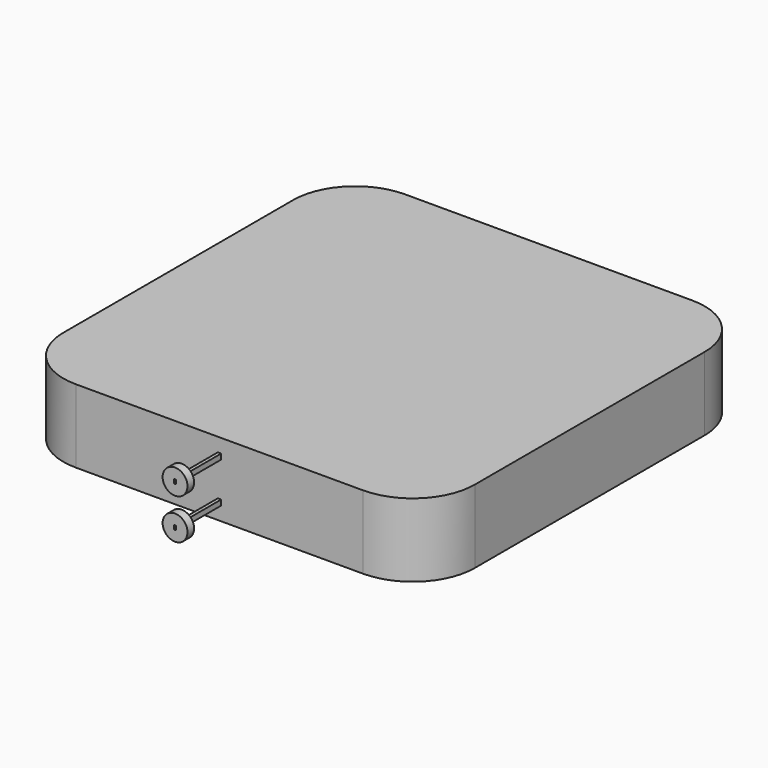
from build123d import *

# Parameters (mm, degrees)
F1_DEPTH = 28.1
F2_DEPTH = 35.5
F4_DEPTH = 42.5
F5_R     = 9.525
F6_DEPTH = 6.35
F7_R     = 9.525
F8_DEPTH = 6.35


with BuildPart() as f1:
    # F0 (on Top) → F1 (new body, symmetric)
    with BuildSketch(Plane.XY):
        with BuildLine():
            Line((107, -115), (0, -115))
            Line((0, -115), (0, -157.5))
            Line((0, -157.5), (110, -157.5))
            ThreePointArc((110, -157.5), (143.5875721064, -143.5875721064), (157.5, -110))
            Line((157.5, -110), (157.5, 0))
            Line((157.5, 0), (115, 0))
            Line((115, 0), (115, -107))
            ThreePointArc((115, -107), (120.6568542495, -109.3431457505), (123, -115))
            ThreePointArc((123, -115), (115, -123), (107, -115))
        make_face()
        with BuildLine():
            Line((115, 0), (0, 0))
            Line((0, 0), (0, -115))
            Line((0, -115), (107, -115))
            ThreePointArc((107, -115), (109.3431457505, -109.3431457505), (115, -107))
            Line((115, -107), (115, 0))
        make_face()
        with BuildLine():
            Line((115, 107), (115, 0))
            Line((115, 0), (157.5, 0))
            Line((157.5, 0), (157.5, 110))
            ThreePointArc((157.5, 110), (143.5875721064, 143.5875721064), (110, 157.5))
            Line((110, 157.5), (0, 157.5))
            Line((0, 157.5), (0, 142.7501142025))
            Line((0, 142.7501142025), (0, 115))
            Line((0, 115), (107, 115))
            ThreePointArc((107, 115), (115, 123), (123, 115))
            ThreePointArc((123, 115), (120.6568542495, 109.3431457505), (115, 107))
        make_face()
        with BuildLine():
            Line((0, 115), (0, 0))
            Line((0, 0), (115, 0))
            Line((115, 0), (115, 107))
            ThreePointArc((115, 107), (109.3431457505, 109.3431457505), (107, 115))
            Line((107, 115), (0, 115))
        make_face()
        with BuildLine():
            Line((-115, 0), (0, 0))
            Line((0, 0), (0, 115))
            Line((0, 115), (-107, 115))
            ThreePointArc((-107, 115), (-109.3431457505, 109.3431457505), (-115, 107))
            Line((-115, 107), (-115, 0))
        make_face()
        with BuildLine():
            Line((-157.5, 0), (-115, 0))
            Line((-115, 0), (-115, 107))
            ThreePointArc((-115, 107), (-120.6568542495, 120.6568542495), (-107, 115))
            Line((-107, 115), (0, 115))
            Line((0, 115), (0, 142.7501142025))
            Line((0, 142.7501142025), (0, 157.5))
            Line((0, 157.5), (-110, 157.5))
            ThreePointArc((-110, 157.5), (-143.5875721064, 143.5875721064), (-157.5, 110))
            Line((-157.5, 110), (-157.5, 0))
        make_face()
        with BuildLine():
            Line((0, -115), (0, 0))
            Line((0, 0), (-115, 0))
            Line((-115, 0), (-115, -107))
            ThreePointArc((-115, -107), (-109.3431457505, -109.3431457505), (-107, -115))
            Line((-107, -115), (0, -115))
        make_face()
        with BuildLine():
            Line((0, -157.5), (0, -115))
            Line((0, -115), (-107, -115))
            ThreePointArc((-107, -115), (-120.6568542495, -120.6568542495), (-115, -107))
            Line((-115, -107), (-115, 0))
            Line((-115, 0), (-157.5, 0))
            Line((-157.5, 0), (-157.5, -110))
            ThreePointArc((-157.5, -110), (-143.5875721064, -143.5875721064), (-110, -157.5))
            Line((-110, -157.5), (0, -157.5))
        make_face()
        with BuildLine():
            Line((115, -115), (107, -115))
            ThreePointArc((107, -115), (115, -123), (123, -115))
            ThreePointArc((123, -115), (120.6568542495, -109.3431457505), (115, -107))
            Line((115, -107), (115, -115))
        make_face()
        with BuildLine():
            ThreePointArc((115, -107), (109.3431457505, -109.3431457505), (107, -115))
            Line((107, -115), (115, -115))
            Line((115, -115), (115, -107))
        make_face()
        with BuildLine():
            ThreePointArc((-115, -107), (-120.6568542495, -120.6568542495), (-107, -115))
            Line((-107, -115), (-115, -115))
            Line((-115, -115), (-115, -107))
        make_face()
        with BuildLine():
            Line((-115, -115), (-107, -115))
            ThreePointArc((-107, -115), (-109.3431457505, -109.3431457505), (-115, -107))
            Line((-115, -107), (-115, -115))
        make_face()
        with BuildLine():
            Line((115, 115), (115, 107))
            ThreePointArc((115, 107), (120.6568542495, 109.3431457505), (123, 115))
            ThreePointArc((123, 115), (115, 123), (107, 115))
            Line((107, 115), (115, 115))
        make_face()
        with BuildLine():
            ThreePointArc((107, 115), (109.3431457505, 109.3431457505), (115, 107))
            Line((115, 107), (115, 115))
            Line((115, 115), (107, 115))
        make_face()
        with BuildLine():
            ThreePointArc((-107, 115), (-120.6568542495, 120.6568542495), (-115, 107))
            Line((-115, 107), (-115, 115))
            Line((-115, 115), (-107, 115))
        make_face()
        with BuildLine():
            Line((-115, 115), (-115, 107))
            ThreePointArc((-115, 107), (-109.3431457505, 109.3431457505), (-107, 115))
            Line((-107, 115), (-115, 115))
        make_face()
    extrude(amount=F1_DEPTH, both=True)

    # F0 (on Top) → F2 (join)
    with BuildSketch(Plane.XY):
        with BuildLine():
            ThreePointArc((-115, -107), (-120.6568542495, -120.6568542495), (-107, -115))
            Line((-107, -115), (-115, -115))
            Line((-115, -115), (-115, -107))
        make_face()
        with BuildLine():
            Line((-115, -115), (-107, -115))
            ThreePointArc((-107, -115), (-109.3431457505, -109.3431457505), (-115, -107))
            Line((-115, -107), (-115, -115))
        make_face()
        with BuildLine():
            Line((115, -115), (107, -115))
            ThreePointArc((107, -115), (115, -123), (123, -115))
            ThreePointArc((123, -115), (120.6568542495, -109.3431457505), (115, -107))
            Line((115, -107), (115, -115))
        make_face()
        with BuildLine():
            ThreePointArc((115, -107), (109.3431457505, -109.3431457505), (107, -115))
            Line((107, -115), (115, -115))
            Line((115, -115), (115, -107))
        make_face()
        with BuildLine():
            Line((115, 115), (115, 107))
            ThreePointArc((115, 107), (120.6568542495, 109.3431457505), (123, 115))
            ThreePointArc((123, 115), (115, 123), (107, 115))
            Line((107, 115), (115, 115))
        make_face()
        with BuildLine():
            ThreePointArc((107, 115), (109.3431457505, 109.3431457505), (115, 107))
            Line((115, 107), (115, 115))
            Line((115, 115), (107, 115))
        make_face()
        with BuildLine():
            ThreePointArc((-107, 115), (-120.6568542495, 120.6568542495), (-115, 107))
            Line((-115, 107), (-115, 115))
            Line((-115, 115), (-107, 115))
        make_face()
        with BuildLine():
            Line((-115, 115), (-115, 107))
            ThreePointArc((-115, 107), (-109.3431457505, 109.3431457505), (-107, 115))
            Line((-107, 115), (-115, 115))
        make_face()
    extrude(amount=-F2_DEPTH)

    # F3 (on face) → F4 (join)
    with BuildSketch(Plane.XZ.offset(157.5)):
        Polygon((0, -13.95), (0, -13.45), (-1.275, -13.45), (-1.275, -17.55), (1.275, -17.55), (1.275, -15.5), (0.775, -15.5), (0.775, -17.05), (-0.775, -17.05), (-0.775, -13.95), align=None)
        Polygon((1.275, -13.45), (0, -13.45), (0, -13.95), (0.775, -13.95), (0.775, -15.5), (1.275, -15.5), align=None)
        Polygon((-1.275, 13.45), (0, 13.45), (0, 13.95), (-0.775, 13.95), (-0.775, 17.05), (0.775, 17.05), (0.775, 15.5), (1.275, 15.5), (1.275, 17.55), (-1.275, 17.55), align=None)
        Polygon((0, 13.95), (0, 13.45), (1.275, 13.45), (1.275, 15.5), (0.775, 15.5), (0.775, 13.95), align=None)
    extrude(amount=F4_DEPTH)

    # F5 (on face) → F6 (join)
    with BuildSketch(Plane.XZ.offset(200)):
        with Locations((0, 15.5)):
            Circle(F5_R)
        Polygon((-1.275, 13.45), (-1.275, 15.5), (-1.275, 17.55), (0, 17.55), (1.275, 17.55), (1.275, 15.5), (1.275, 13.45), (0, 13.45), align=None, mode=Mode.SUBTRACT)
    extrude(amount=-F6_DEPTH)

    # F7 (on face) → F8 (join)
    with BuildSketch(Plane.XZ.offset(200)):
        with Locations((0, -15.5)):
            Circle(F7_R)
        Polygon((-1.275, -17.55), (-1.275, -15.5), (-1.275, -13.45), (0, -13.45), (1.275, -13.45), (1.275, -15.5), (1.275, -17.55), (0, -17.55), align=None, mode=Mode.SUBTRACT)
    extrude(amount=-F8_DEPTH)


solid = f1.part
